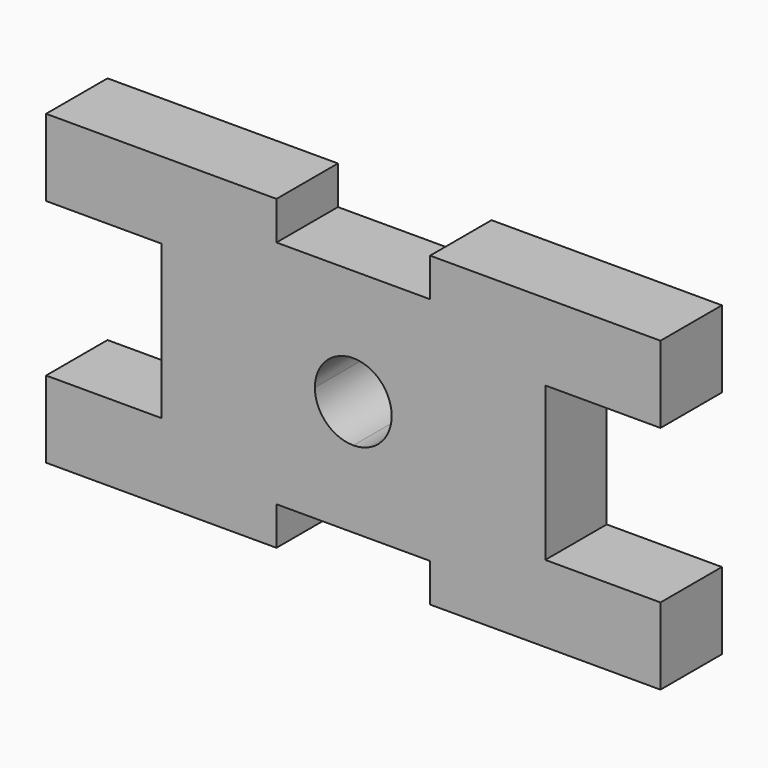
from build123d import *

# Parameters (mm, degrees)
F1_DEPTH = 10


with BuildPart() as f1:
    # F0 (on Front) → F1 (new body)
    with BuildSketch(Plane.XZ):
        with BuildLine():
            ThreePointArc((0, 5), (3.535534, 3.535534), (5, 0))
            Line((5, 0), (25, 0))
            Line((25, 0), (25, 10))
            Line((25, 10), (40, 10))
            Line((40, 10), (40, 20))
            Line((40, 20), (10, 20))
            Line((10, 20), (10, 15))
            Line((10, 15), (0, 15))
            Line((0, 15), (0, 5))
        make_face()
        with BuildLine():
            Line((25, 0), (5, 0))
            ThreePointArc((5, 0), (3.535534, -3.535534), (0, -5))
            Line((0, -5), (0, -15))
            Line((0, -15), (10, -15))
            Line((10, -15), (10, -20))
            Line((10, -20), (40, -20))
            Line((40, -20), (40, -10))
            Line((40, -10), (25, -10))
            Line((25, -10), (25, 0))
        make_face()
        with BuildLine():
            ThreePointArc((-5, 0), (-3.535534, 3.535534), (0, 5))
            Line((0, 5), (0, 15))
            Line((0, 15), (-10, 15))
            Line((-10, 15), (-10, 20))
            Line((-10, 20), (-40, 20))
            Line((-40, 20), (-40, 10))
            Line((-40, 10), (-25, 10))
            Line((-25, 10), (-25, 0))
            Line((-25, 0), (-25, -10))
            Line((-25, -10), (-40, -10))
            Line((-40, -10), (-40, -20))
            Line((-40, -20), (-10, -20))
            Line((-10, -20), (-10, -15))
            Line((-10, -15), (0, -15))
            Line((0, -15), (0, -5))
            ThreePointArc((0, -5), (-3.535534, -3.535534), (-5, 0))
        make_face()
    extrude(amount=F1_DEPTH)


solid = f1.part
